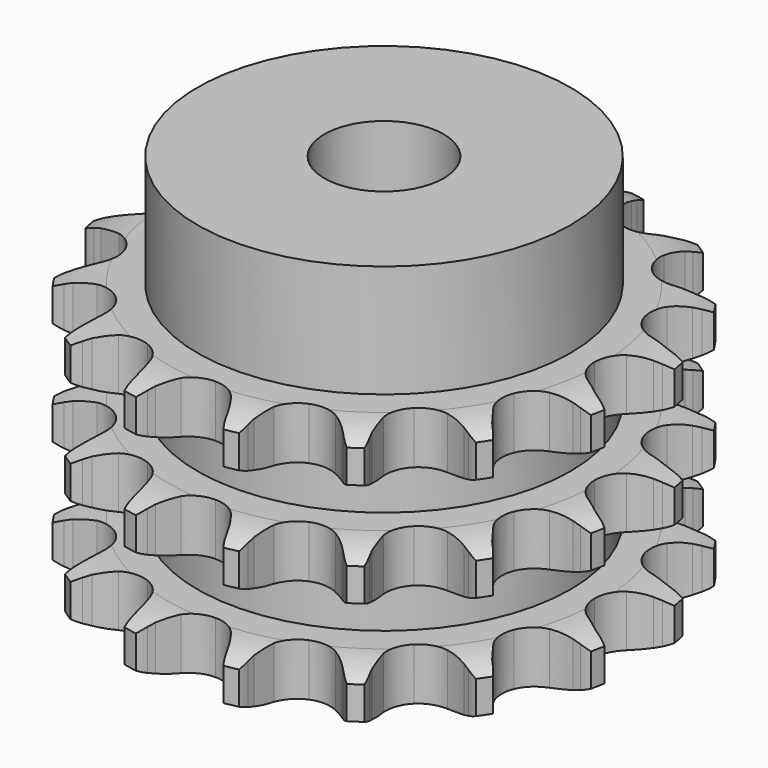
from build123d import *

# Parameters (mm, degrees)
PAD_DEPTH         = 34.9
SKETCH001_R       = 25
PAD001_DEPTH      = 50
SKETCH002_R       = 8
POCKET_DEPTH      = 0.001
POCKET_DEPTH_BACK = 50.001


with BuildPart() as part:
    # Sprocket → Pad (new body)
    with BuildSketch(Plane.XY):
        with BuildLine():
            ThreePointArc((-7.081309, 35.600145), (-6.020618, 34.467806), (-5.232154, 33.13155))
            Line((-5.232154, 33.13155), (-4.831506, 32.242144))
            ThreePointArc((-4.831506, 32.242144), (-4.17393, 30.998888), (-3.364714, 29.848558))
            ThreePointArc((-3.364714, 29.848558), (-1.865877, 28.658996), (0, 28.234651))
            ThreePointArc((0, 28.234651), (1.865877, 28.658996), (3.364714, 29.848558))
            ThreePointArc((3.364714, 29.848558), (4.17393, 30.998888), (4.831506, 32.242144))
            Line((4.831506, 32.242144), (5.232154, 33.13155))
            ThreePointArc((5.232154, 33.13155), (6.020618, 34.467806), (7.081309, 35.600145))
            ThreePointArc((7.081309, 35.600145), (7.627933, 34.148091), (7.845015, 32.611819))
            Line((7.845015, 32.611819), (7.874805, 31.636794))
            ThreePointArc((7.874805, 31.636794), (8.006552, 30.236532), (8.313958, 28.864092))
            ThreePointArc((8.313958, 28.864092), (9.243477, 27.1915), (10.804933, 26.085416))
            ThreePointArc((10.804933, 26.085416), (12.691169, 25.76342), (14.531139, 26.288851))
            Line((14.531139, 26.288851), (16.802264, 27.93892))
            ThreePointArc((16.802264, 27.93892), (17.150188, 28.280904), (17.512775, 28.607302))
            ThreePointArc((17.512775, 28.607302), (18.752584, 29.54011), (20.165862, 30.180346))
            ThreePointArc((20.165862, 30.180346), (20.1152, 28.629639), (19.727852, 27.127235))
            Line((19.727852, 27.127235), (19.382248, 26.215029))
            ThreePointArc((19.382248, 26.215029), (18.96811, 24.870938), (18.726905, 23.48533))
            ThreePointArc((18.726905, 23.48533), (18.945596, 21.584345), (19.964913, 19.964913))
            ThreePointArc((19.964913, 19.964913), (21.584345, 18.945596), (23.48533, 18.726905))
            Line((23.48533, 18.726905), (26.215029, 19.382248))
            ThreePointArc((26.215029, 19.382248), (26.667341, 19.565055), (27.127235, 19.727852))
            ThreePointArc((27.127235, 19.727852), (28.629639, 20.1152), (30.180346, 20.165862))
            ThreePointArc((30.180346, 20.165862), (29.54011, 18.752584), (28.607302, 17.512775))
            Line((28.607302, 17.512775), (27.93892, 16.802264))
            ThreePointArc((27.93892, 16.802264), (27.041944, 15.71897), (26.288851, 14.531139))
            ThreePointArc((26.288851, 14.531139), (25.76342, 12.691169), (26.085416, 10.804933))
            ThreePointArc((26.085416, 10.804933), (27.1915, 9.243477), (28.864092, 8.313958))
            Line((28.864092, 8.313958), (31.636794, 7.874805))
            ThreePointArc((31.636794, 7.874805), (32.124633, 7.870605), (32.611819, 7.845015))
            ThreePointArc((32.611819, 7.845015), (34.148091, 7.627933), (35.600145, 7.081309))
            ThreePointArc((35.600145, 7.081309), (34.467806, 6.020618), (33.13155, 5.232154))
            Line((33.13155, 5.232154), (32.242144, 4.831506))
            ThreePointArc((32.242144, 4.831506), (30.998888, 4.17393), (29.848558, 3.364714))
            ThreePointArc((29.848558, 3.364714), (28.658996, 1.865877), (28.234651, 0))
            ThreePointArc((28.234651, 0), (28.658996, -1.865877), (29.848558, -3.364714))
            Line((29.848558, -3.364714), (32.242144, -4.831506))
            ThreePointArc((32.242144, -4.831506), (32.691241, -5.022074), (33.13155, -5.232154))
            ThreePointArc((33.13155, -5.232154), (34.467806, -6.020618), (35.600145, -7.081309))
            ThreePointArc((35.600145, -7.081309), (34.148091, -7.627933), (32.611819, -7.845015))
            Line((32.611819, -7.845015), (31.636794, -7.874805))
            ThreePointArc((31.636794, -7.874805), (30.236532, -8.006552), (28.864092, -8.313958))
            ThreePointArc((28.864092, -8.313958), (27.1915, -9.243477), (26.085416, -10.804933))
            ThreePointArc((26.085416, -10.804933), (25.76342, -12.691169), (26.288851, -14.531139))
            Line((26.288851, -14.531139), (27.93892, -16.802264))
            ThreePointArc((27.93892, -16.802264), (28.280904, -17.150188), (28.607302, -17.512775))
            ThreePointArc((28.607302, -17.512775), (29.54011, -18.752584), (30.180346, -20.165862))
            ThreePointArc((30.180346, -20.165862), (28.629639, -20.1152), (27.127235, -19.727852))
            Line((27.127235, -19.727852), (26.215029, -19.382248))
            ThreePointArc((26.215029, -19.382248), (24.870938, -18.96811), (23.48533, -18.726905))
            ThreePointArc((23.48533, -18.726905), (21.584345, -18.945596), (19.964913, -19.964913))
            ThreePointArc((19.964913, -19.964913), (18.945596, -21.584345), (18.726905, -23.48533))
            Line((18.726905, -23.48533), (19.382248, -26.215029))
            ThreePointArc((19.382248, -26.215029), (19.565055, -26.667341), (19.727852, -27.127235))
            ThreePointArc((19.727852, -27.127235), (20.1152, -28.629639), (20.165862, -30.180346))
            ThreePointArc((20.165862, -30.180346), (18.752584, -29.54011), (17.512775, -28.607302))
            Line((17.512775, -28.607302), (16.802264, -27.93892))
            ThreePointArc((16.802264, -27.93892), (15.71897, -27.041944), (14.531139, -26.288851))
            ThreePointArc((14.531139, -26.288851), (12.691169, -25.76342), (10.804933, -26.085416))
            ThreePointArc((10.804933, -26.085416), (9.243477, -27.1915), (8.313958, -28.864092))
            Line((8.313958, -28.864092), (7.874805, -31.636794))
            ThreePointArc((7.874805, -31.636794), (7.870605, -32.124633), (7.845015, -32.611819))
            ThreePointArc((7.845015, -32.611819), (7.627933, -34.148091), (7.081309, -35.600145))
            ThreePointArc((7.081309, -35.600145), (6.020618, -34.467806), (5.232154, -33.13155))
            Line((5.232154, -33.13155), (4.831506, -32.242144))
            ThreePointArc((4.831506, -32.242144), (4.17393, -30.998888), (3.364714, -29.848558))
            ThreePointArc((3.364714, -29.848558), (1.865877, -28.658996), (0, -28.234651))
            ThreePointArc((0, -28.234651), (-1.865877, -28.658996), (-3.364714, -29.848558))
            Line((-3.364714, -29.848558), (-4.831506, -32.242144))
            ThreePointArc((-4.831506, -32.242144), (-5.022074, -32.691241), (-5.232154, -33.13155))
            ThreePointArc((-5.232154, -33.13155), (-6.020618, -34.467806), (-7.081309, -35.600145))
            ThreePointArc((-7.081309, -35.600145), (-7.627933, -34.148091), (-7.845015, -32.611819))
            Line((-7.845015, -32.611819), (-7.874805, -31.636794))
            ThreePointArc((-7.874805, -31.636794), (-8.006552, -30.236532), (-8.313958, -28.864092))
            ThreePointArc((-8.313958, -28.864092), (-9.243477, -27.1915), (-10.804933, -26.085416))
            ThreePointArc((-10.804933, -26.085416), (-12.691169, -25.76342), (-14.531139, -26.288851))
            Line((-14.531139, -26.288851), (-16.802264, -27.93892))
            ThreePointArc((-16.802264, -27.93892), (-17.150188, -28.280904), (-17.512775, -28.607302))
            ThreePointArc((-17.512775, -28.607302), (-18.752584, -29.54011), (-20.165862, -30.180346))
            ThreePointArc((-20.165862, -30.180346), (-20.1152, -28.629639), (-19.727852, -27.127235))
            Line((-19.727852, -27.127235), (-19.382248, -26.215029))
            ThreePointArc((-19.382248, -26.215029), (-18.96811, -24.870938), (-18.726905, -23.48533))
            ThreePointArc((-18.726905, -23.48533), (-18.945596, -21.584345), (-19.964913, -19.964913))
            ThreePointArc((-19.964913, -19.964913), (-21.584345, -18.945596), (-23.48533, -18.726905))
            Line((-23.48533, -18.726905), (-26.215029, -19.382248))
            ThreePointArc((-26.215029, -19.382248), (-26.667341, -19.565055), (-27.127235, -19.727852))
            ThreePointArc((-27.127235, -19.727852), (-28.629639, -20.1152), (-30.180346, -20.165862))
            ThreePointArc((-30.180346, -20.165862), (-29.54011, -18.752584), (-28.607302, -17.512775))
            Line((-28.607302, -17.512775), (-27.93892, -16.802264))
            ThreePointArc((-27.93892, -16.802264), (-27.041944, -15.71897), (-26.288851, -14.531139))
            ThreePointArc((-26.288851, -14.531139), (-25.76342, -12.691169), (-26.085416, -10.804933))
            ThreePointArc((-26.085416, -10.804933), (-27.1915, -9.243477), (-28.864092, -8.313958))
            Line((-28.864092, -8.313958), (-31.636794, -7.874805))
            ThreePointArc((-31.636794, -7.874805), (-32.124633, -7.870605), (-32.611819, -7.845015))
            ThreePointArc((-32.611819, -7.845015), (-34.148091, -7.627933), (-35.600145, -7.081309))
            ThreePointArc((-35.600145, -7.081309), (-34.467806, -6.020618), (-33.13155, -5.232154))
            Line((-33.13155, -5.232154), (-32.242144, -4.831506))
            ThreePointArc((-32.242144, -4.831506), (-30.998888, -4.17393), (-29.848558, -3.364714))
            ThreePointArc((-29.848558, -3.364714), (-28.658996, -1.865877), (-28.234651, 0))
            ThreePointArc((-28.234651, 0), (-28.658996, 1.865877), (-29.848558, 3.364714))
            Line((-29.848558, 3.364714), (-32.242144, 4.831506))
            ThreePointArc((-32.242144, 4.831506), (-32.691241, 5.022074), (-33.13155, 5.232154))
            ThreePointArc((-33.13155, 5.232154), (-34.467806, 6.020618), (-35.600145, 7.081309))
            ThreePointArc((-35.600145, 7.081309), (-34.148091, 7.627933), (-32.611819, 7.845015))
            Line((-32.611819, 7.845015), (-31.636794, 7.874805))
            ThreePointArc((-31.636794, 7.874805), (-30.236532, 8.006552), (-28.864092, 8.313958))
            ThreePointArc((-28.864092, 8.313958), (-27.1915, 9.243477), (-26.085416, 10.804933))
            ThreePointArc((-26.085416, 10.804933), (-25.76342, 12.691169), (-26.288851, 14.531139))
            Line((-26.288851, 14.531139), (-27.93892, 16.802264))
            ThreePointArc((-27.93892, 16.802264), (-28.280904, 17.150188), (-28.607302, 17.512775))
            ThreePointArc((-28.607302, 17.512775), (-29.54011, 18.752584), (-30.180346, 20.165862))
            ThreePointArc((-30.180346, 20.165862), (-28.629639, 20.1152), (-27.127235, 19.727852))
            Line((-27.127235, 19.727852), (-26.215029, 19.382248))
            ThreePointArc((-26.215029, 19.382248), (-24.870938, 18.96811), (-23.48533, 18.726905))
            ThreePointArc((-23.48533, 18.726905), (-21.584345, 18.945596), (-19.964913, 19.964913))
            ThreePointArc((-19.964913, 19.964913), (-18.945596, 21.584345), (-18.726905, 23.48533))
            Line((-18.726905, 23.48533), (-19.382248, 26.215029))
            ThreePointArc((-19.382248, 26.215029), (-19.565055, 26.667341), (-19.727852, 27.127235))
            ThreePointArc((-19.727852, 27.127235), (-20.1152, 28.629639), (-20.165862, 30.180346))
            ThreePointArc((-20.165862, 30.180346), (-18.752584, 29.54011), (-17.512775, 28.607302))
            Line((-17.512775, 28.607302), (-16.802264, 27.93892))
            ThreePointArc((-16.802264, 27.93892), (-15.71897, 27.041944), (-14.531139, 26.288851))
            ThreePointArc((-14.531139, 26.288851), (-12.691169, 25.76342), (-10.804933, 26.085416))
            ThreePointArc((-10.804933, 26.085416), (-9.243477, 27.1915), (-8.313958, 28.864092))
            Line((-8.313958, 28.864092), (-7.874805, 31.636794))
            ThreePointArc((-7.874805, 31.636794), (-7.870605, 32.124633), (-7.845015, 32.611819))
            ThreePointArc((-7.845015, 32.611819), (-7.627933, 34.148091), (-7.081309, 35.600145))
        make_face()
    extrude(amount=PAD_DEPTH)

    # Sketch → Groove (revolve, cut)
    with BuildSketch(Plane.XZ):
        with BuildLine():
            ThreePointArc((29.083431, 0), (31.99032, 0.329167), (34.75, 1.3))
            Line((34.75, 1.3), (34.75, 5.7))
            ThreePointArc((34.75, 5.7), (31.99032, 6.670833), (29.083431, 7))
            Line((25, 7), (29.083431, 7))
            Line((25, 7), (25, 13.95))
            Line((25, 13.95), (29.083431, 13.95))
            ThreePointArc((29.083431, 13.95), (31.99032, 14.279167), (34.75, 15.25))
            Line((34.75, 19.65), (34.75, 15.25))
            ThreePointArc((34.75, 19.65), (31.99032, 20.620833), (29.083431, 20.95))
            Line((25, 20.95), (29.083431, 20.95))
            Line((25, 27.9), (25, 20.95))
            Line((29.083431, 27.9), (25, 27.9))
            ThreePointArc((29.083431, 27.9), (31.99032, 28.229167), (34.75, 29.2))
            Line((34.75, 29.2), (34.75, 33.6))
            ThreePointArc((34.75, 33.6), (31.99032, 34.570833), (29.083431, 34.9))
            Line((29.083431, 34.9), (44.75, 34.9))
            Line((44.75, 34.9), (44.75, 0))
            Line((29.083431, 0), (44.75, 0))
        make_face()
    revolve(axis=Axis((0, 0, 0), (0, 0, 1)), mode=Mode.SUBTRACT)

    # Sketch001 → Pad001 (join)
    with BuildSketch(Plane.XY):
        Circle(SKETCH001_R)
    extrude(amount=PAD001_DEPTH)

    # Sketch002 → Pocket (cut, two sides)
    with BuildSketch(Plane.XY) as pocket_sk:
        Circle(SKETCH002_R)
    extrude(amount=-POCKET_DEPTH, mode=Mode.SUBTRACT)
    extrude(pocket_sk.sketch, amount=POCKET_DEPTH_BACK, mode=Mode.SUBTRACT)


solid = part.part
